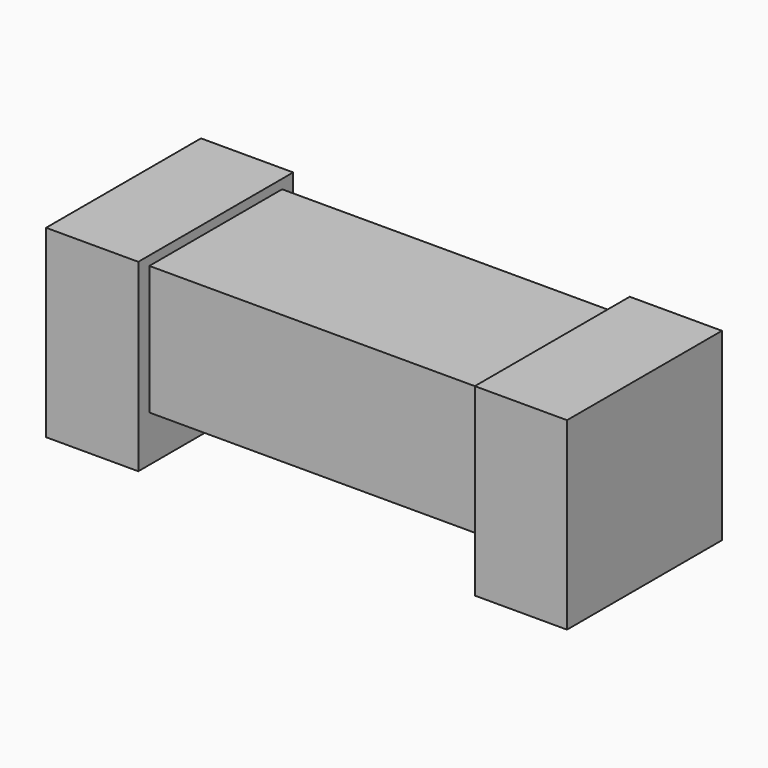
from build123d import *

# Parameters (mm, degrees)
F0_W     = 2
F0_H     = 4.2
F1_DEPTH = 4
F2_W     = 3.6
F2_H     = 2.8
F3_DEPTH = 7.3


with BuildPart() as f1:
    # F0 (on Top) → F1 (new body)
    with BuildSketch(Plane.XY):
        with Locations((-4.65, 0)):
            Rectangle(F0_W, F0_H)
        with Locations((4.65, 0)):
            Rectangle(F0_W, F0_H)
    extrude(amount=F1_DEPTH)


with BuildPart() as f3:
    # F2 (on face) → F3 (new body, through all)
    with BuildSketch(Plane.YZ.offset(-3.65)):
        with Locations((0, 2.4)):
            Rectangle(F2_W, F2_H)
    extrude(amount=F3_DEPTH)


solid = Compound([f1.part, f3.part])
